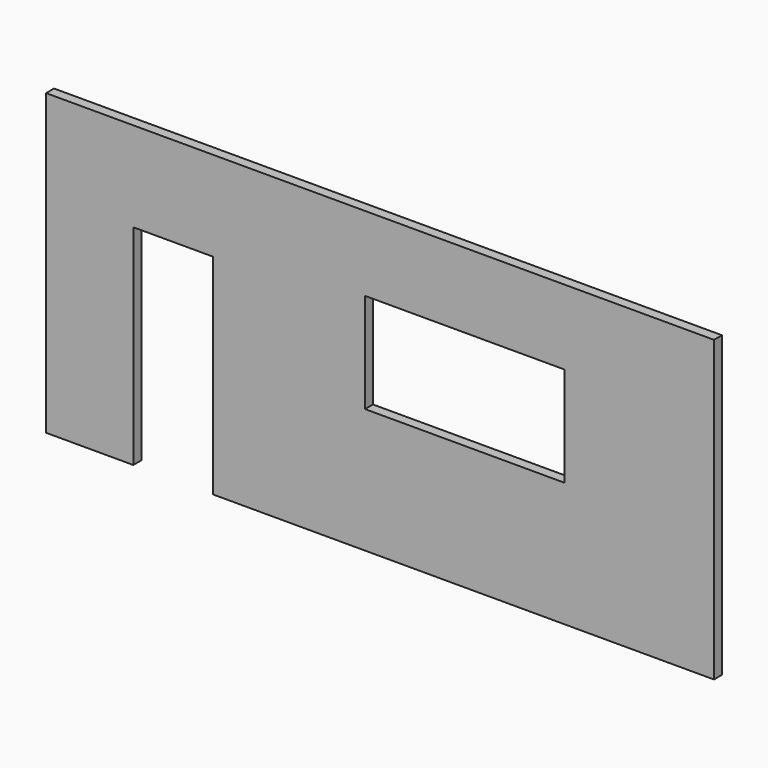
from build123d import *

# Parameters (mm, degrees)
F0_W     = 6700
F0_H     = 3000
F1_DEPTH = 50
F2_W     = 2000
F2_H     = 1000
F2_W_2   = 800
F2_H_2   = 2100
F3_DEPTH = 100.001


with BuildPart() as f1:
    # F0 (on Front) → F1 (new body, symmetric)
    with BuildSketch(Plane.XZ):
        with Locations((0, 1500)):
            Rectangle(F0_W, F0_H)
    extrude(amount=F1_DEPTH, both=True)

    # F2 (on face) → F3 (cut, through all)
    with BuildSketch(Plane.XZ.offset(50)):
        with Locations((850, 1750)):
            Rectangle(F2_W, F2_H)
        with Locations((-2075, 1050)):
            Rectangle(F2_W_2, F2_H_2)
    extrude(amount=-F3_DEPTH, mode=Mode.SUBTRACT)


solid = f1.part
